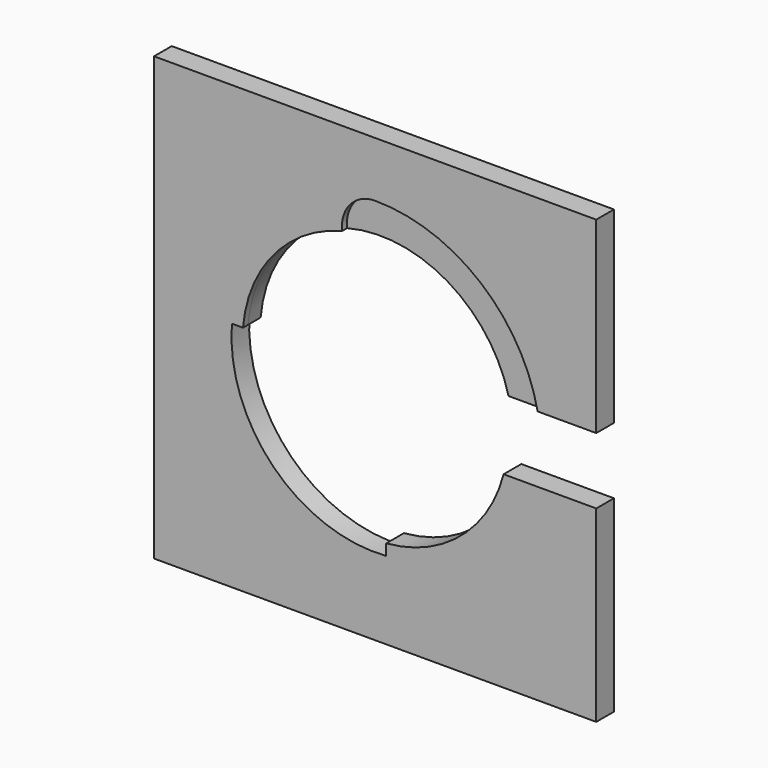
from build123d import *

# Parameters (mm, degrees)
F1_DEPTH = 1.778
F3_DEPTH = 4.572


with BuildPart() as f1:
    # F0 (on Front) → F1 (new body)
    with BuildSketch(Plane.XZ):
        with BuildLine():
            Line((-63.5, -63.5), (63.5, -63.5))
            Line((63.5, -63.5), (63.5, -9.525))
            Line((63.5, -9.525), (45.032244, -9.525))
            Line((45.032244, -9.525), (36.890166, -9.525))
            ThreePointArc((36.890166, -9.525), (24.567214, -29.121504), (3.175, -37.967478))
            Line((3.175, -37.967478), (3.175, -41.152703))
            ThreePointArc((3.175, -41.152703), (-29.185832, -29.185832), (-41.152703, 3.175))
            Line((-41.152703, 3.175), (-37.967478, 3.175))
            ThreePointArc((-37.967478, 3.175), (-29.096619, 24.596681), (-9.450293, 36.909375))
            ThreePointArc((-9.450293, 36.909375), (-7.14375, 44.400195), (0, 47.625))
            ThreePointArc((0, 47.625), (30.120695, 36.890166), (46.66278, 9.525))
            Line((46.66278, 9.525), (63.5, 9.525))
            Line((63.5, 9.525), (63.5, 63.5))
            Line((63.5, 63.5), (-63.5, 63.5))
            Line((-63.5, 63.5), (-63.5, -63.5))
        make_face()
    extrude(amount=F1_DEPTH)

    # F2 (on Front) → F3 (join)
    with BuildSketch(Plane.XZ):
        with BuildLine():
            Line((-63.5, 63.5), (-63.5, -63.5))
            Line((-63.5, -63.5), (63.5, -63.5))
            Line((63.5, -63.5), (63.5, -9.525))
            Line((63.5, -9.525), (36.890166, -9.525))
            ThreePointArc((36.890166, -9.525), (24.567214, -29.121504), (3.175, -37.967478))
            Line((3.175, -37.967478), (3.175, -41.152703))
            ThreePointArc((3.175, -41.152703), (-29.185832, -29.185832), (-41.152703, 3.175))
            Line((-41.152703, 3.175), (-37.967478, 3.175))
            ThreePointArc((-37.967478, 3.175), (-3.220369, 37.963657), (36.890166, 9.525))
            Line((36.890166, 9.525), (63.5, 9.525))
            Line((63.5, 9.525), (63.5, 63.5))
            Line((63.5, 63.5), (-63.5, 63.5))
        make_face()
    extrude(amount=-F3_DEPTH)


solid = f1.part
